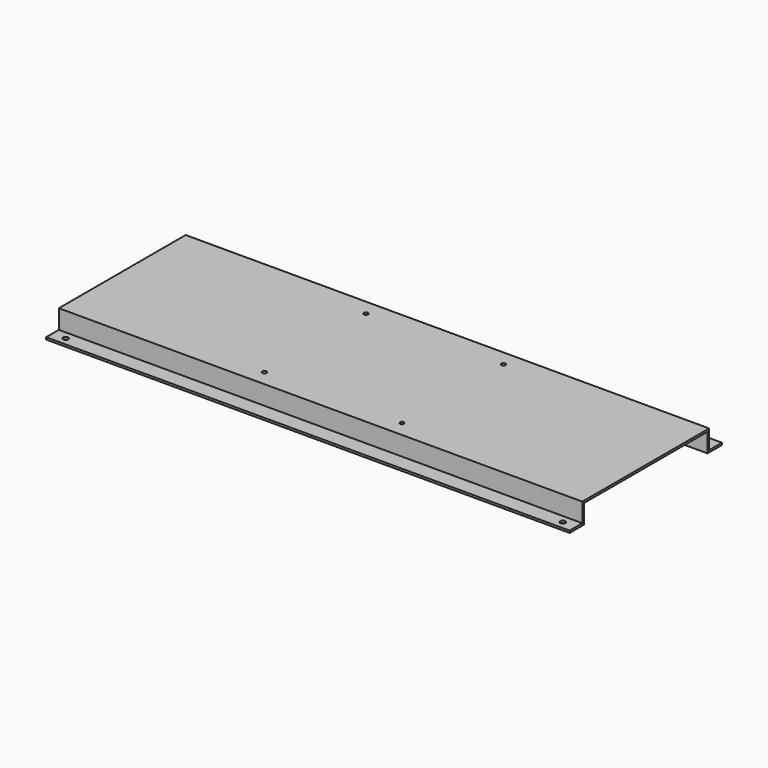
from build123d import *

# Parameters (mm, degrees)
F1_DEPTH = 314.325
F2_R     = 2.579688
F2_R_2   = 3.175
F3_DEPTH = 25.401


with BuildPart() as f1:
    # F0 (on Right) → F1 (new body, symmetric)
    with BuildSketch(Plane.YZ):
        Polygon((-114.3, 2.54), (-114.3, 0), (-92.6338, 0), (-92.6338, 22.86), (92.6338, 22.86), (92.6338, 0), (114.3, 0), (114.3, 2.54), (95.1738, 2.54), (95.1738, 25.4), (-95.1738, 25.4), (-95.1738, 2.54), align=None)
    extrude(amount=F1_DEPTH, both=True)

    # F2 (on face) → F3 (cut, through all)
    with BuildSketch(Plane.XY.offset(25.4)):
        with Locations((-82.55, 76.2)):
            Circle(F2_R)
        with Locations((-82.55, -76.2)):
            Circle(F2_R)
        with Locations((82.55, -76.2)):
            Circle(F2_R)
        with Locations((82.55, 76.2)):
            Circle(F2_R)
        with Locations((298.45, 104.775)):
            Circle(F2_R_2)
        with Locations((298.45, -104.775)):
            Circle(F2_R_2)
        with Locations((-298.45, -104.775)):
            Circle(F2_R_2)
        with Locations((-298.45, 104.775)):
            Circle(F2_R_2)
    extrude(amount=-F3_DEPTH, mode=Mode.SUBTRACT)


solid = f1.part
